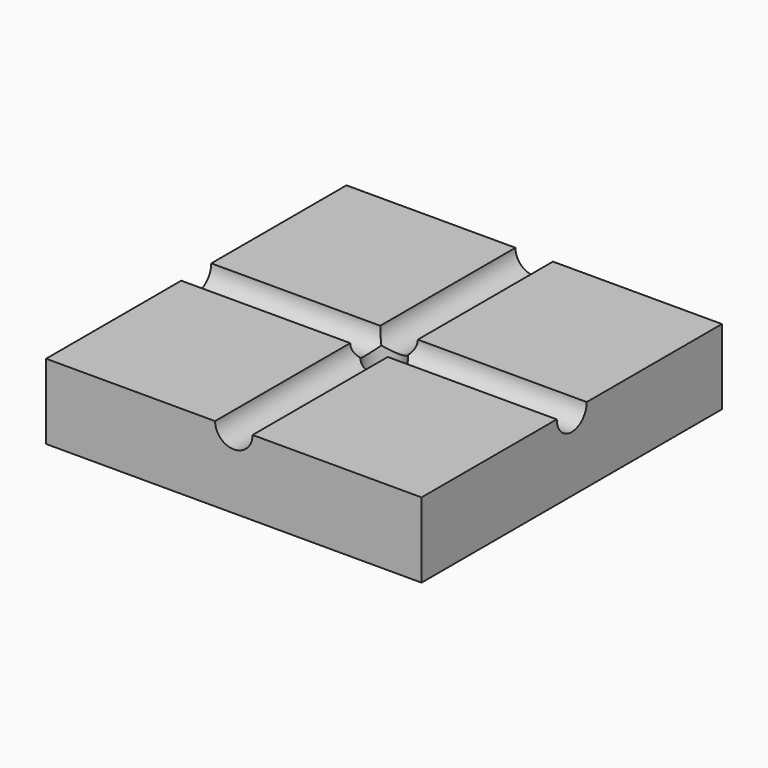
from build123d import *

# Parameters (mm, degrees)
F0_W     = 25.4
F0_H     = 25.4
F1_DEPTH = 5.08
F3_DEPTH = 25.4
F5_DEPTH = 25.4
F6_R     = 1.27
F7_DEPTH = 25.4


with BuildPart() as f1:
    # F0 (on Top) → F1 (new body)
    with BuildSketch(Plane.XY):
        Rectangle(F0_W, F0_H)
    extrude(amount=F1_DEPTH)

    # F2 (on face) → F3 (cut)
    with BuildSketch(Plane.YZ.offset(12.7)):
        with BuildLine():
            ThreePointArc((-1.27, 5.08), (0, 3.81), (1.27, 5.08))
            Line((1.27, 5.08), (-1.27, 5.08))
        make_face()
    extrude(amount=-F3_DEPTH, mode=Mode.SUBTRACT)

    # F4 (on face) → F5 (cut)
    with BuildSketch(Plane.XZ.offset(12.7)):
        with BuildLine():
            ThreePointArc((-1.27, 5.08), (0, 3.81), (1.27, 5.08))
            Line((1.27, 5.08), (-1.27, 5.08))
        make_face()
    extrude(amount=-F5_DEPTH, mode=Mode.SUBTRACT)

    # F6 (on face) → F7 (cut)
    with BuildSketch(Plane.XY.offset(5.08)):
        Circle(F6_R)
    extrude(amount=-F7_DEPTH, mode=Mode.SUBTRACT)


solid = f1.part
